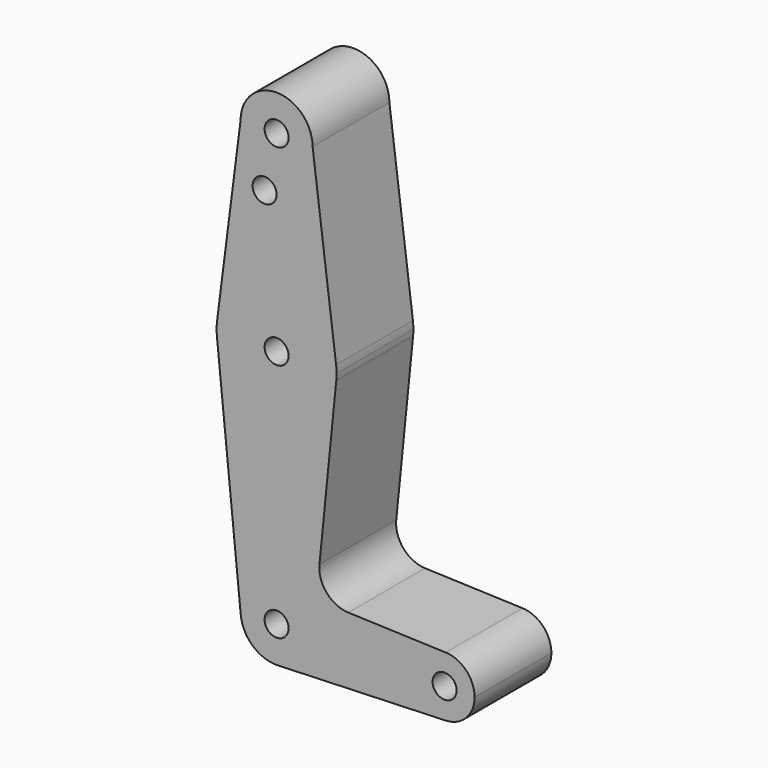
from build123d import *

# Parameters (mm, degrees)
F0_R     = 3.175
F1_DEPTH = 25.4
F2_DEPTH = 25.4
F3_DEPTH = 25.4
F4_DEPTH = 25.4


with BuildPart() as f1:
    # F0 (on Front) → F1 (new body)
    with BuildSketch(Plane.XZ):
        with BuildLine():
            ThreePointArc((0.340179, -9.518923), (6.854408, -6.613827), (9.525, 0))
            ThreePointArc((9.525, 0), (-0.476848, 9.513056), (-9.477255, -0.9525))
            ThreePointArc((-9.477255, -0.9525), (-6.262383, -7.17692), (0.340179, -9.518923))
        make_face()
        Circle(F0_R, mode=Mode.SUBTRACT)
        with BuildLine():
            ThreePointArc((-9.477255, -0.9525), (-0.476848, 9.513056), (9.525, 0))
            ThreePointArc((9.525, 0), (6.854408, -6.613827), (0.340179, -9.518923))
            Line((0.340179, -9.518923), (44.733482, -7.932436))
            ThreePointArc((44.733482, -7.932436), (36.5125, 0), (44.733482, 7.932436))
            Line((44.733482, 7.932436), (18.9676, 8.853234))
            ThreePointArc((18.9676, 8.853234), (13.2612, 11.571359), (11.341187, 17.593382))
            Line((11.341187, 17.593382), (15.795426, 61.9125))
            ThreePointArc((15.795426, 61.9125), (0, 47.625), (-15.795426, 61.9125))
            Line((-15.795426, 61.9125), (-9.477255, -0.9525))
        make_face()
        with BuildLine():
            ThreePointArc((-15.747457, 65.508289), (-15.873588, 63.711757), (-15.795426, 61.9125))
            ThreePointArc((-15.795426, 61.9125), (0, 47.625), (15.795426, 61.9125))
            ThreePointArc((15.795426, 61.9125), (15.855094, 62.705253), (15.875, 63.5))
            ThreePointArc((15.875, 63.5), (15.843082, 64.506168), (15.747457, 65.508289))
            ThreePointArc((15.747457, 65.508289), (0, 79.375), (-15.747457, 65.508289))
        make_face()
        with Locations((0, 63.5)):
            Circle(F0_R, mode=Mode.SUBTRACT)
        with BuildLine():
            ThreePointArc((44.733482, 7.932436), (36.5125, 0), (44.733482, -7.932436))
            ThreePointArc((44.733482, -7.932436), (50.162007, -5.511523), (52.3875, 0))
            ThreePointArc((52.3875, 0), (50.162007, 5.511523), (44.733482, 7.932436))
        make_face()
        with Locations((44.45, 0)):
            Circle(F0_R, mode=Mode.SUBTRACT)
        with BuildLine():
            Line((-9.525, 114.3), (-15.747457, 65.508289))
            ThreePointArc((-15.747457, 65.508289), (0, 79.375), (15.747457, 65.508289))
            Line((15.747457, 65.508289), (9.525, 114.3))
            ThreePointArc((9.525, 114.3), (0, 104.775), (-9.525, 114.3))
        make_face()
        with Locations((-3.175, 100.0252)):
            Circle(F0_R, mode=Mode.SUBTRACT)
        with BuildLine():
            ThreePointArc((9.525, 114.3), (0, 123.825), (-9.525, 114.3))
            ThreePointArc((-9.525, 114.3), (0, 104.775), (9.525, 114.3))
        make_face()
        with Locations((0, 114.3)):
            Circle(F0_R, mode=Mode.SUBTRACT)
    extrude(amount=F1_DEPTH)


with BuildPart() as f2:
    # F0 (on Front) → F2 (new body)
    with BuildSketch(Plane.XZ):
        with BuildLine():
            ThreePointArc((0.340179, -9.518923), (6.854408, -6.613827), (9.525, 0))
            ThreePointArc((9.525, 0), (-0.476848, 9.513056), (-9.477255, -0.9525))
            ThreePointArc((-9.477255, -0.9525), (-6.262383, -7.17692), (0.340179, -9.518923))
        make_face()
        Circle(F0_R, mode=Mode.SUBTRACT)
        with BuildLine():
            ThreePointArc((-9.477255, -0.9525), (-0.476848, 9.513056), (9.525, 0))
            ThreePointArc((9.525, 0), (6.854408, -6.613827), (0.340179, -9.518923))
            Line((0.340179, -9.518923), (44.733482, -7.932436))
            ThreePointArc((44.733482, -7.932436), (36.5125, 0), (44.733482, 7.932436))
            Line((44.733482, 7.932436), (18.9676, 8.853234))
            ThreePointArc((18.9676, 8.853234), (13.2612, 11.571359), (11.341187, 17.593382))
            Line((11.341187, 17.593382), (15.795426, 61.9125))
            ThreePointArc((15.795426, 61.9125), (0, 47.625), (-15.795426, 61.9125))
            Line((-15.795426, 61.9125), (-9.477255, -0.9525))
        make_face()
        with BuildLine():
            ThreePointArc((-15.747457, 65.508289), (-15.873588, 63.711757), (-15.795426, 61.9125))
            ThreePointArc((-15.795426, 61.9125), (0, 47.625), (15.795426, 61.9125))
            ThreePointArc((15.795426, 61.9125), (15.855094, 62.705253), (15.875, 63.5))
            ThreePointArc((15.875, 63.5), (15.843082, 64.506168), (15.747457, 65.508289))
            ThreePointArc((15.747457, 65.508289), (0, 79.375), (-15.747457, 65.508289))
        make_face()
        with Locations((0, 63.5)):
            Circle(F0_R, mode=Mode.SUBTRACT)
        with BuildLine():
            ThreePointArc((44.733482, 7.932436), (36.5125, 0), (44.733482, -7.932436))
            ThreePointArc((44.733482, -7.932436), (50.162007, -5.511523), (52.3875, 0))
            ThreePointArc((52.3875, 0), (50.162007, 5.511523), (44.733482, 7.932436))
        make_face()
        with Locations((44.45, 0)):
            Circle(F0_R, mode=Mode.SUBTRACT)
        with BuildLine():
            Line((-9.525, 114.3), (-15.747457, 65.508289))
            ThreePointArc((-15.747457, 65.508289), (0, 79.375), (15.747457, 65.508289))
            Line((15.747457, 65.508289), (9.525, 114.3))
            ThreePointArc((9.525, 114.3), (0, 104.775), (-9.525, 114.3))
        make_face()
        with Locations((-3.175, 100.0252)):
            Circle(F0_R, mode=Mode.SUBTRACT)
        with BuildLine():
            ThreePointArc((9.525, 114.3), (0, 123.825), (-9.525, 114.3))
            ThreePointArc((-9.525, 114.3), (0, 104.775), (9.525, 114.3))
        make_face()
        with Locations((0, 114.3)):
            Circle(F0_R, mode=Mode.SUBTRACT)
    extrude(amount=F2_DEPTH)


with BuildPart() as f3:
    # F0 (on Front) → F3 (new body)
    with BuildSketch(Plane.XZ):
        with BuildLine():
            ThreePointArc((0.340179, -9.518923), (6.854408, -6.613827), (9.525, 0))
            ThreePointArc((9.525, 0), (-0.476848, 9.513056), (-9.477255, -0.9525))
            ThreePointArc((-9.477255, -0.9525), (-6.262383, -7.17692), (0.340179, -9.518923))
        make_face()
        Circle(F0_R, mode=Mode.SUBTRACT)
        with BuildLine():
            ThreePointArc((-9.477255, -0.9525), (-0.476848, 9.513056), (9.525, 0))
            ThreePointArc((9.525, 0), (6.854408, -6.613827), (0.340179, -9.518923))
            Line((0.340179, -9.518923), (44.733482, -7.932436))
            ThreePointArc((44.733482, -7.932436), (36.5125, 0), (44.733482, 7.932436))
            Line((44.733482, 7.932436), (18.9676, 8.853234))
            ThreePointArc((18.9676, 8.853234), (13.2612, 11.571359), (11.341187, 17.593382))
            Line((11.341187, 17.593382), (15.795426, 61.9125))
            ThreePointArc((15.795426, 61.9125), (0, 47.625), (-15.795426, 61.9125))
            Line((-15.795426, 61.9125), (-9.477255, -0.9525))
        make_face()
        with BuildLine():
            ThreePointArc((-15.747457, 65.508289), (-15.873588, 63.711757), (-15.795426, 61.9125))
            ThreePointArc((-15.795426, 61.9125), (0, 47.625), (15.795426, 61.9125))
            ThreePointArc((15.795426, 61.9125), (15.855094, 62.705253), (15.875, 63.5))
            ThreePointArc((15.875, 63.5), (15.843082, 64.506168), (15.747457, 65.508289))
            ThreePointArc((15.747457, 65.508289), (0, 79.375), (-15.747457, 65.508289))
        make_face()
        with Locations((0, 63.5)):
            Circle(F0_R, mode=Mode.SUBTRACT)
        with BuildLine():
            ThreePointArc((44.733482, 7.932436), (36.5125, 0), (44.733482, -7.932436))
            ThreePointArc((44.733482, -7.932436), (50.162007, -5.511523), (52.3875, 0))
            ThreePointArc((52.3875, 0), (50.162007, 5.511523), (44.733482, 7.932436))
        make_face()
        with Locations((44.45, 0)):
            Circle(F0_R, mode=Mode.SUBTRACT)
        with BuildLine():
            Line((-9.525, 114.3), (-15.747457, 65.508289))
            ThreePointArc((-15.747457, 65.508289), (0, 79.375), (15.747457, 65.508289))
            Line((15.747457, 65.508289), (9.525, 114.3))
            ThreePointArc((9.525, 114.3), (0, 104.775), (-9.525, 114.3))
        make_face()
        with Locations((-3.175, 100.0252)):
            Circle(F0_R, mode=Mode.SUBTRACT)
        with BuildLine():
            ThreePointArc((9.525, 114.3), (0, 123.825), (-9.525, 114.3))
            ThreePointArc((-9.525, 114.3), (0, 104.775), (9.525, 114.3))
        make_face()
        with Locations((0, 114.3)):
            Circle(F0_R, mode=Mode.SUBTRACT)
    extrude(amount=F3_DEPTH)


with BuildPart() as f4:
    # F0 (on Front) → F4 (new body)
    with BuildSketch(Plane.XZ):
        with BuildLine():
            ThreePointArc((0.340179, -9.518923), (6.854408, -6.613827), (9.525, 0))
            ThreePointArc((9.525, 0), (-0.476848, 9.513056), (-9.477255, -0.9525))
            ThreePointArc((-9.477255, -0.9525), (-6.262383, -7.17692), (0.340179, -9.518923))
        make_face()
        Circle(F0_R, mode=Mode.SUBTRACT)
        with BuildLine():
            ThreePointArc((-9.477255, -0.9525), (-0.476848, 9.513056), (9.525, 0))
            ThreePointArc((9.525, 0), (6.854408, -6.613827), (0.340179, -9.518923))
            Line((0.340179, -9.518923), (44.733482, -7.932436))
            ThreePointArc((44.733482, -7.932436), (36.5125, 0), (44.733482, 7.932436))
            Line((44.733482, 7.932436), (18.9676, 8.853234))
            ThreePointArc((18.9676, 8.853234), (13.2612, 11.571359), (11.341187, 17.593382))
            Line((11.341187, 17.593382), (15.795426, 61.9125))
            ThreePointArc((15.795426, 61.9125), (0, 47.625), (-15.795426, 61.9125))
            Line((-15.795426, 61.9125), (-9.477255, -0.9525))
        make_face()
        with BuildLine():
            ThreePointArc((-15.747457, 65.508289), (-15.873588, 63.711757), (-15.795426, 61.9125))
            ThreePointArc((-15.795426, 61.9125), (0, 47.625), (15.795426, 61.9125))
            ThreePointArc((15.795426, 61.9125), (15.855094, 62.705253), (15.875, 63.5))
            ThreePointArc((15.875, 63.5), (15.843082, 64.506168), (15.747457, 65.508289))
            ThreePointArc((15.747457, 65.508289), (0, 79.375), (-15.747457, 65.508289))
        make_face()
        with Locations((0, 63.5)):
            Circle(F0_R, mode=Mode.SUBTRACT)
        with BuildLine():
            ThreePointArc((44.733482, 7.932436), (36.5125, 0), (44.733482, -7.932436))
            ThreePointArc((44.733482, -7.932436), (50.162007, -5.511523), (52.3875, 0))
            ThreePointArc((52.3875, 0), (50.162007, 5.511523), (44.733482, 7.932436))
        make_face()
        with Locations((44.45, 0)):
            Circle(F0_R, mode=Mode.SUBTRACT)
        with BuildLine():
            Line((-9.525, 114.3), (-15.747457, 65.508289))
            ThreePointArc((-15.747457, 65.508289), (0, 79.375), (15.747457, 65.508289))
            Line((15.747457, 65.508289), (9.525, 114.3))
            ThreePointArc((9.525, 114.3), (0, 104.775), (-9.525, 114.3))
        make_face()
        with Locations((-3.175, 100.0252)):
            Circle(F0_R, mode=Mode.SUBTRACT)
        with BuildLine():
            ThreePointArc((9.525, 114.3), (0, 123.825), (-9.525, 114.3))
            ThreePointArc((-9.525, 114.3), (0, 104.775), (9.525, 114.3))
        make_face()
        with Locations((0, 114.3)):
            Circle(F0_R, mode=Mode.SUBTRACT)
    extrude(amount=F4_DEPTH)


solid = Compound([f1.part, f2.part, f3.part, f4.part])
